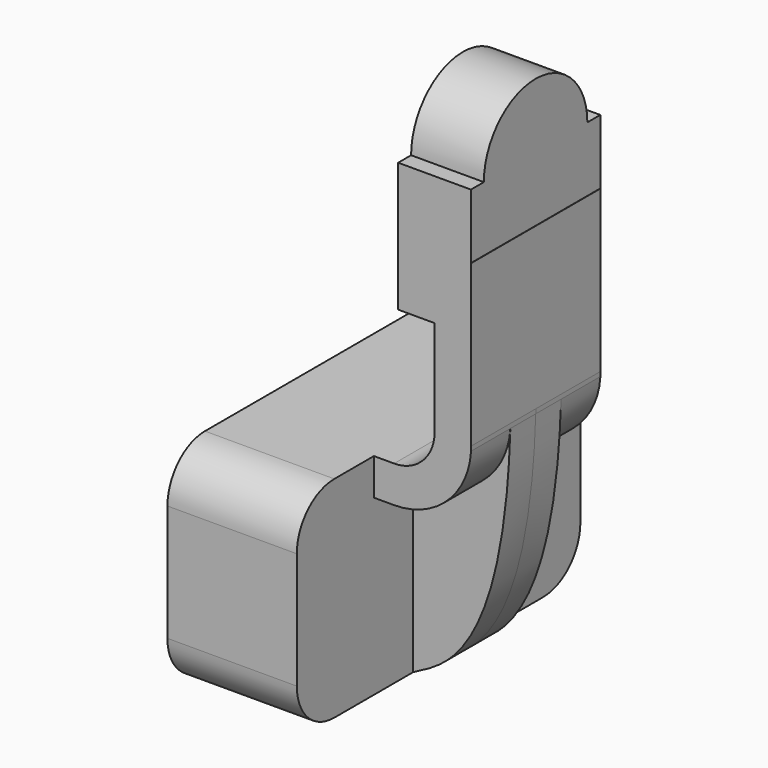
from build123d import *

# Parameters (mm, degrees)
F1_DEPTH = 27.4
F0_W     = 5.625
F0_H     = 10
F2_DEPTH = 12.5
F3_DEPTH = 4.9
F5_R     = 7.242641


with BuildPart() as f1:
    # F0 (on Front) → F1 (new body, symmetric)
    with BuildSketch(Plane.XZ):
        Polygon((10, 16.25), (-10, 16.25), (-10, -16.25), (10, -16.25), (10, 10.584195), align=None)
    extrude(amount=F1_DEPTH, both=True)

    # F0 (on Front) → F2 (join, symmetric)
    with BuildSketch(Plane.XZ):
        with BuildLine():
            Line((13.125, 16.25), (10, 16.25))
            Line((10, 16.25), (10, 10.584195))
            Line((10, 10.584195), (13.125, 10.584195))
            ThreePointArc((13.125, 10.584195), (21.300311, 13.83105), (25.020355, 21.802188))
            add(Edge.make_bspline(
                [(25.020355, 21.802188), (25.02761, 22.033307), (25.034428, 22.265908), (25.040805, 22.5)],
                knots=[41.280664, 41.280664, 41.280664, 41.280664, 41.566673, 41.566673, 41.566673, 41.566673], degree=3))
            Line((25.040805, 22.5), (25.040805, 47.395553))
            Line((25.040805, 47.395553), (25, 47.395553))
            Line((25, 47.395553), (25, 37.395553))
            Line((25, 37.395553), (19.375, 37.395553))
            Line((19.375, 37.395553), (19.375, 22.5))
            ThreePointArc((19.375, 22.5), (17.544417, 18.080583), (13.125, 16.25))
        make_face()
        Polygon((13.75, 47.395553), (19.375, 47.395553), (25, 47.395553), (25, 57.395553), (13.75, 57.395553), align=None)
        with Locations((16.5625, 42.395553)):
            Rectangle(F0_W, F0_H)
        with Locations((22.1875, 42.395553)):
            Rectangle(F0_W, F0_H)
    extrude(amount=F2_DEPTH, both=True)

    # F0 (on Front) → F3 (join, symmetric)
    with BuildSketch(Plane.XZ):
        with BuildLine():
            Line((13.125, 10.584195), (10, 10.584195))
            Line((10, 10.584195), (10, -16.25))
            add(Edge.make_bspline(
                [(10, -16.25), (13.830885, -14.058451), (23.973214, -11.556052), (25.020355, 21.802188)],
                knots=[0, 0, 0, 0, 41.280664, 41.280664, 41.280664, 41.280664], degree=3))
            ThreePointArc((25.020355, 21.802188), (21.300311, 13.83105), (13.125, 10.584195))
        make_face()
    extrude(amount=F3_DEPTH, both=True)

    # F0 (on Front) → F4 (revolve)
    with BuildSketch(Plane.XZ):
        Polygon((13.75, 47.395553), (19.375, 47.395553), (25, 47.395553), (25, 57.395553), (13.75, 57.395553), align=None)
    revolve(axis=Axis((19.375, 0, 57.395553), (1, 0, 0)))

    # F5
    f5_edges = [f1.edges().sort_by_distance(p)[0] for p in [
        (0, 27.4, 16.25),
        (0, 27.4, -16.25),
        (0, -27.4, 16.25),
        (0, -27.4, -16.25),
    ]]
    fillet(f5_edges, radius=F5_R)


solid = f1.part
